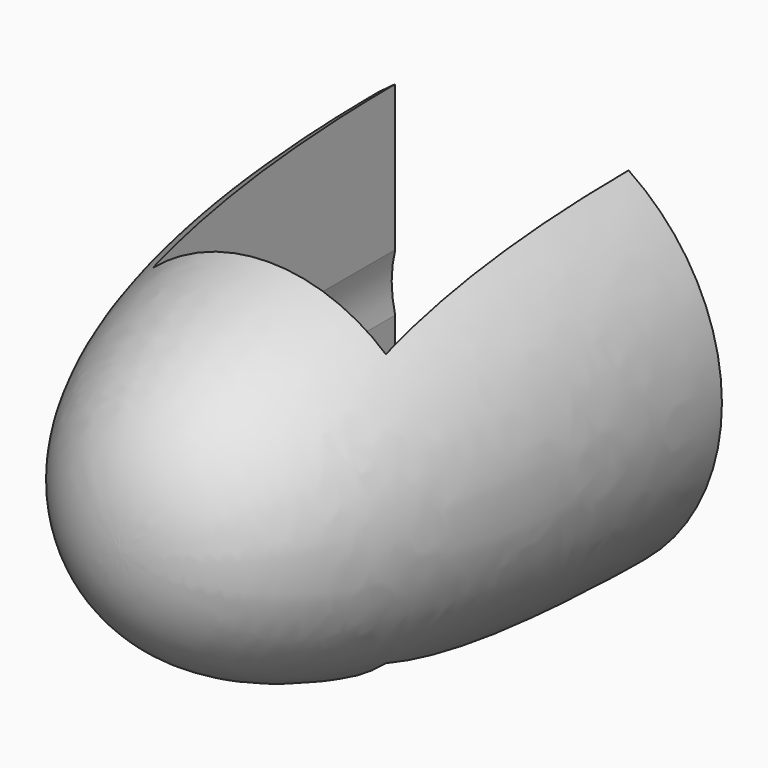
from build123d import *

# Parameters (mm, degrees)
F2_W     = 10
F2_H     = 18
F3_DEPTH = 13


with BuildPart() as f1:
    # F0 (on Right) → F1 (revolve)
    with BuildSketch(Plane.YZ):
        with BuildLine():
            Line((-16, 5.15), (0, 5.15))
            Line((0, 5.15), (0, 9))
            add(Edge.make_bspline(
                [(-21, 0), (-21, 5.15), (-16, 8.955878), (0, 9)],
                knots=[0, 0, 0, 0, 22.847319, 22.847319, 22.847319, 22.847319], degree=3))
            Line((-21, 0), (-16, 0))
            Line((-16, 0), (-16, 5.15))
        make_face()
    revolve(axis=Axis((0, -18.5, 0), (0, -1, 0)))

    # F2 (on face) → F3 (cut)
    with BuildSketch(Plane(origin=(0, 0, 0), x_dir=(-1, 0, 0), z_dir=(0, 1, 0))):
        Rectangle(F2_W, F2_H)
    extrude(amount=-F3_DEPTH, mode=Mode.SUBTRACT)


solid = f1.part
